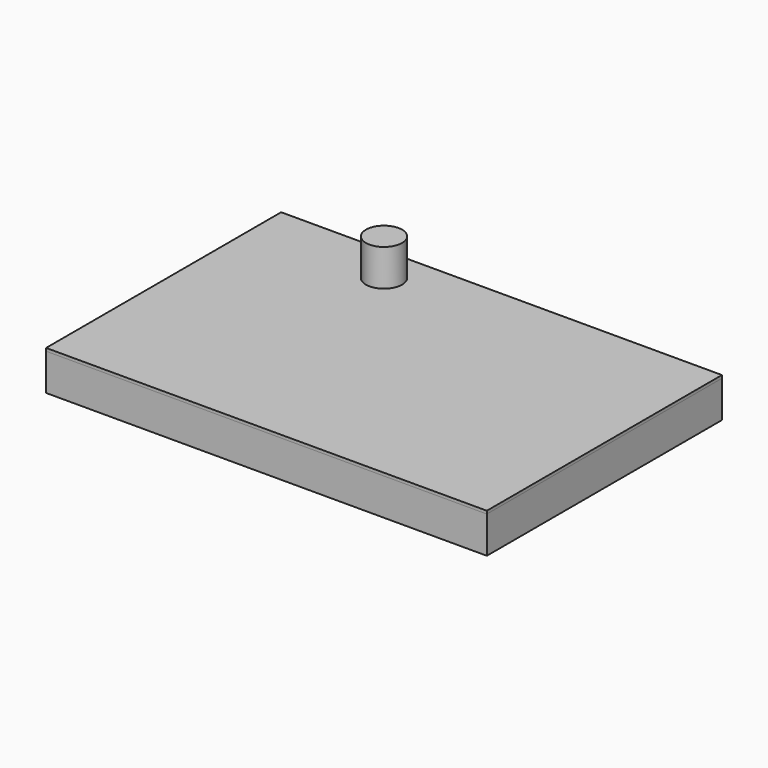
from build123d import *

# Parameters (mm, degrees)
F0_W     = 60
F0_H     = 40
F1_DEPTH = 0.4
F3_R     = 2.46
F4_DEPTH = 5
F5_W     = 60
F5_H     = 40
F5_R     = 2.5
F6_DEPTH = 5


with BuildPart() as f1:
    # F0 (on Top) → F1 (new body)
    with BuildSketch(Plane.XY):
        Rectangle(F0_W, F0_H)
    extrude(amount=-F1_DEPTH)


with BuildPart() as f4:
    # F3 (on offset) → F4 (new body)
    with BuildSketch(Plane.XY.offset(10)):
        Circle(F3_R)
    extrude(amount=F4_DEPTH)


with BuildPart() as f6:
    # F5 (on face) → F6 (new body)
    with BuildSketch(Plane(origin=(0, 0, -0.4), x_dir=(1, 0, 0), z_dir=(0, 0, -1))):
        Rectangle(F5_W, F5_H)
        Circle(F5_R, mode=Mode.SUBTRACT)
    extrude(amount=F6_DEPTH)


solid = Compound([f1.part, f4.part, f6.part])
